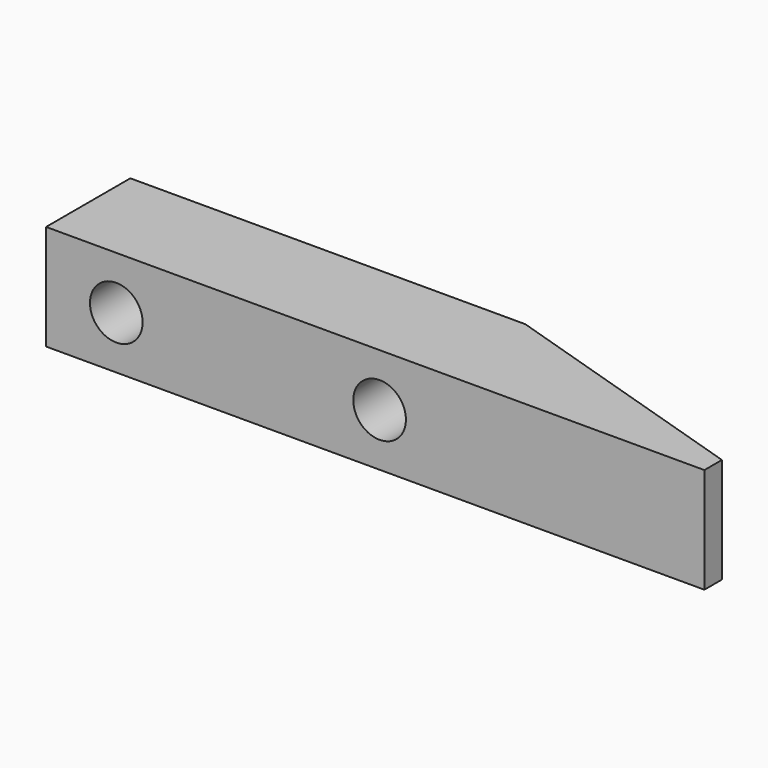
from build123d import *

# Parameters (mm, degrees)
F1_DEPTH = 12
F2_R     = 3
F3_DEPTH = 12.001


with BuildPart() as f1:
    # F0 (on Top) → F1 (new body)
    with BuildSketch(Plane.XY):
        Polygon((25.683252, 22.42391), (-19.316748, 22.42391), (-19.316748, 10.42391), (55.683252, 10.42391), (55.683252, 12.92391), align=None)
    extrude(amount=F1_DEPTH)

    # F2 (on face) → F3 (cut, through all)
    with BuildSketch(Plane(origin=(0, 22.42391, 0), x_dir=(-1, 0, 0), z_dir=(0, 1, 0))):
        with Locations((-18.683252, 6)):
            Circle(F2_R)
        with Locations((11.316748, 6)):
            Circle(F2_R)
    extrude(amount=-F3_DEPTH, mode=Mode.SUBTRACT)


solid = f1.part
